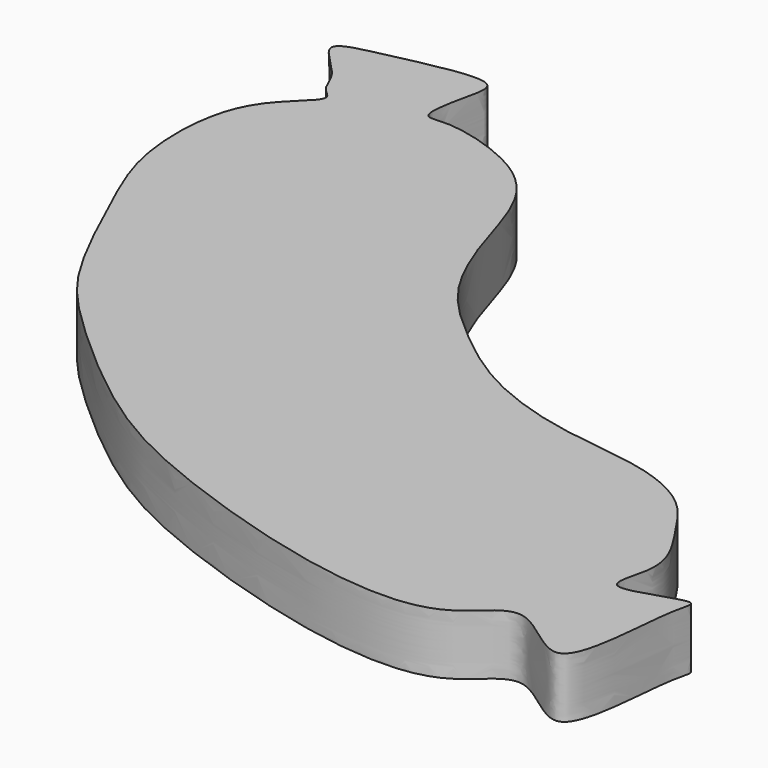
from build123d import *

# Parameters (mm, degrees)
F1_DEPTH = 5


with BuildPart() as f1:
    # F0 (on Top) → F1 (new body)
    with BuildSketch(Plane.XY):
        with BuildLine():
            add(Edge.make_bspline(
                [(-67.9524242878, 63.8397559524), (-68.9831652693, 63.6072415948), (-71.8306488927, 62.9796943958), (-67.6379568612, 60.0262308357), (-67.3576055015, 57.8222878168), (-65.5388717629, 56.8985351624), (-68.8580883754, 54.395245375), (-70.8142720739, 50.4634019117), (-70.8178779264, 43.1015495287), (-68.0161220458, 36.8408288996), (-63.8329264697, 27.730372554), (-59.5806170616, 22.8489144813), (-49.7085042916, 14.141907793), (-41.6019831231, 10.0559894798), (-31.947320159, 6.6403592883), (-22.1167699013, 4.3569871266), (-14.674150799, 4.8455472977), (-11.266066911, 10.240281903), (-4.0739163796, 1.4981317361), (-4.1340183838, 14.5181918314), (-2.6382827755, 17.2840571845), (-10.4488787156, 13.574133721), (-7.5626365985, 19.1223970846), (-10.4365731563, 23.2967213426), (-12.8626541914, 27.2063322038), (-18.1334121363, 29.474283159), (-25.2426716195, 29.8633905554), (-32.9827060492, 32.3824255863), (-38.6267048722, 36.8290429629), (-43.0575975094, 40.9273793108), (-45.6719387907, 47.1423263636), (-47.073322512, 52.7861342383), (-50.3558184993, 57.2314165315), (-57.5271462813, 59.4027980438), (-60.1718068006, 58.4949742591), (-59.1435770895, 62.91511396), (-58.5744865466, 65.8069738844), (-64.9999322705, 64.5254894316), (-66.7827040648, 64.1036212212), (-67.9524242878, 63.8397559524)],
                knots=[0, 0, 0, 0, 0.0190438384, 0.0411022083, 0.058917454, 0.0716528536, 0.092421915, 0.1173825355, 0.1479963709, 0.1791333223, 0.2152263534, 0.2455221902, 0.2870602587, 0.3226907478, 0.3597032355, 0.3970650582, 0.4278781964, 0.4526299399, 0.4807893368, 0.5164552309, 0.5315538821, 0.5580225597, 0.5793917309, 0.6055074099, 0.6302697265, 0.6572018316, 0.6884181897, 0.721545249, 0.7525753956, 0.7809689155, 0.8108886229, 0.8387635848, 0.8658986656, 0.8972876014, 0.9124326348, 0.9349964256, 0.9517229861, 0.9783883989, 1, 1, 1, 1], degree=3))
        make_face()
    extrude(amount=F1_DEPTH)


solid = f1.part
